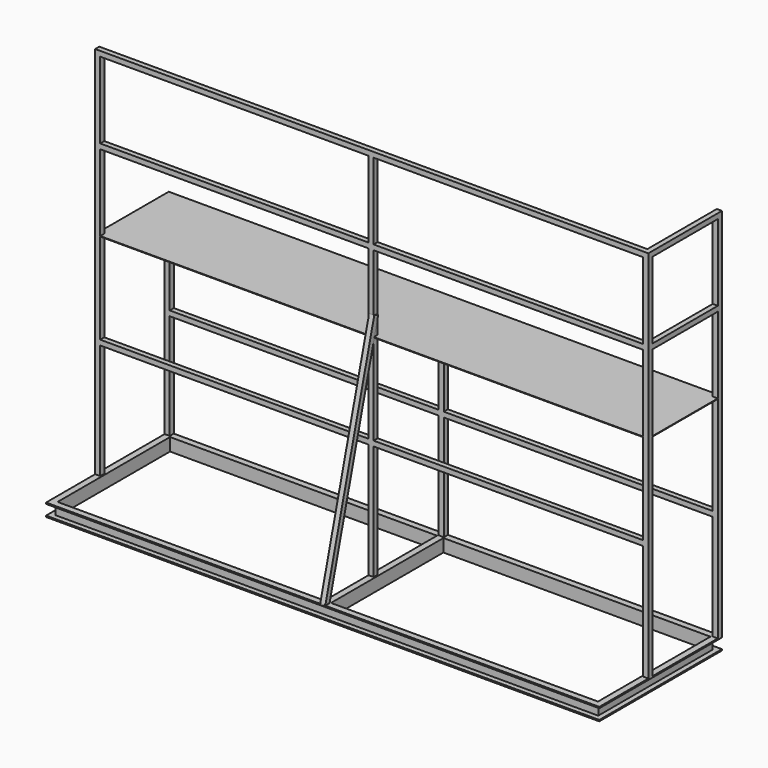
from build123d import *

# Parameters (mm, degrees)
F0_W          = 4330
F0_H          = 1200
F0_W_2        = 2090
F0_H_2        = 1100
F1_DEPTH      = 100
F2_W          = 40
F2_H          = 80
F3_DEPTH      = 4330.001
F4_W          = 40
F4_H          = 80
F5_DEPTH      = 1160.001
F7_W          = 90
F7_H          = 80
F8_DEPTH      = 550
F8_DEPTH_BACK = 550
F9_W          = 40
F9_H          = 40
F10_DEPTH     = 2930
F11_W         = 4330
F11_H         = 720
F12_DEPTH     = 4
F13_DEPTH     = 1650
F14_W         = 40
F14_H         = 40
F15_DEPTH     = 4300
F16_W         = 40
F16_H         = 40
F17_DEPTH     = 720
F19_DEPTH     = 20


with BuildPart() as f1:
    # F0 (on Top) → F1 (new body)
    with BuildSketch(Plane.XY):
        Rectangle(F0_W, F0_H)
        with Locations((-1070, 0)):
            Rectangle(F0_W_2, F0_H_2, mode=Mode.SUBTRACT)
        with Locations((1070, 0)):
            Rectangle(F0_W_2, F0_H_2, mode=Mode.SUBTRACT)
    extrude(amount=F1_DEPTH)

    # F2 (on face) → F3 (cut, through all)
    with BuildSketch(Plane(origin=(-2165, 0, 0), x_dir=(0, -1, 0), z_dir=(-1, 0, 0))):
        with Locations((-580, 50)):
            Rectangle(F2_W, F2_H)
        with Locations((580, 50)):
            Rectangle(F2_W, F2_H)
    extrude(amount=-F3_DEPTH, mode=Mode.SUBTRACT)

    # F4 (on face) → F5 (cut, through all)
    with BuildSketch(Plane.XZ.offset(560)):
        with Locations((2145, 50)):
            Rectangle(F4_W, F4_H)
        with Locations((-2145, 50)):
            Rectangle(F4_W, F4_H)
    extrude(amount=-F5_DEPTH, mode=Mode.SUBTRACT)

    # F7 (on Front) → F8 (cut, two sides)
    with BuildSketch(Plane.XZ) as f8_sk:
        with Locations((-45, 50)):
            Rectangle(F7_W, F7_H)
    extrude(amount=-F8_DEPTH, mode=Mode.SUBTRACT)
    extrude(f8_sk.sketch, amount=F8_DEPTH_BACK, mode=Mode.SUBTRACT)

    # F9 (on face) → F10 (join)
    with BuildSketch(Plane.XY.offset(100)):
        with Locations((-2145, -100)):
            Rectangle(F9_W, F9_H)
        with Locations((-5, -100)):
            Rectangle(F9_W, F9_H)
        with Locations((2145, 580)):
            Rectangle(F9_W, F9_H)
        with Locations((2145, -100)):
            Rectangle(F9_W, F9_H)
    extrude(amount=F10_DEPTH)

    # F11 (on offset) → F12 (join)
    with BuildSketch(Plane.XY.offset(1750)):
        with Locations((0, 240)):
            Rectangle(F11_W, F11_H)
    extrude(amount=F12_DEPTH)

    # F9 (on face) → F13 (join)
    with BuildSketch(Plane.XY.offset(100)):
        with Locations((-2145, 580)):
            Rectangle(F9_W, F9_H)
        with Locations((2145, 580)):
            Rectangle(F9_W, F9_H)
        with Locations((0, 580)):
            Rectangle(F9_W, F9_H)
        with Locations((-2145, -100)):
            Rectangle(F9_W, F9_H)
        with Locations((-5, -100)):
            Rectangle(F9_W, F9_H)
        with Locations((2145, -100)):
            Rectangle(F9_W, F9_H)
    extrude(amount=F13_DEPTH)

    # F14 (on face) → F15 (join)
    with BuildSketch(Plane.YZ.offset(2165)):
        with Locations((-100, 3010)):
            Rectangle(F14_W, F14_H)
        with Locations((580, 945)):
            Rectangle(F14_W, F14_H)
        with Locations((-100, 1020)):
            Rectangle(F14_W, F14_H)
        with Locations((-100, 2372)):
            Rectangle(F14_W, F14_H)
    extrude(amount=-F15_DEPTH)

    # F16 (on face) → F17 (join)
    with BuildSketch(Plane.XZ.offset(120)):
        with Locations((2145, 2372)):
            Rectangle(F16_W, F16_H)
        with Locations((2145, 3010)):
            Rectangle(F16_W, F16_H)
    extrude(amount=-F17_DEPTH)

    # F18 (on Right) → F19 (join, symmetric)
    with BuildSketch(Plane.YZ):
        Polygon((-81.6997326648, 1894.9868524751), (-120.3644446259, 1905.2357600368), (-599.6056199074, 98.6450761557), (-558.3395584145, 98.2024500072), align=None)
    extrude(amount=F19_DEPTH, both=True)


solid = f1.part
